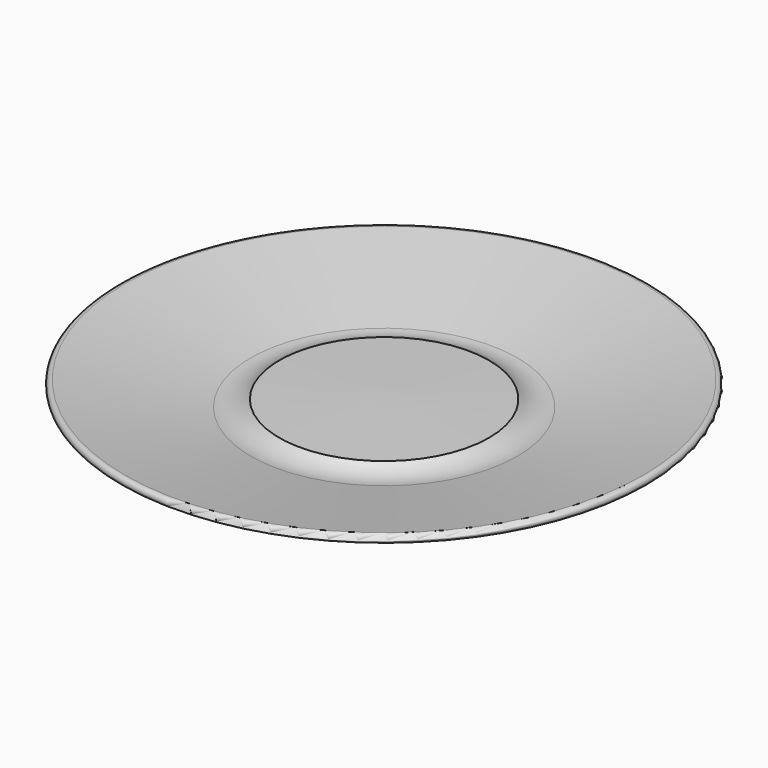
from build123d import *


with BuildPart() as f1:
    # F0 (on Front) → F1 (revolve)
    with BuildSketch(Plane.XZ):
        with BuildLine():
            Line((151.253424, 11.254308), (29.166639, 13.973743))
            Line((29.166639, 13.973743), (29.166639, 0))
            Line((29.166639, 0), (125.650197, 0))
            ThreePointArc((125.650197, 0), (136.271784, -2.236273), (145.090006, -8.565411))
            ThreePointArc((145.090006, -8.565411), (155.771268, -15.34929), (168.415868, -15.82308))
            Line((168.415868, -15.82308), (332.77935, 22.097347))
            ThreePointArc((332.77935, 22.097347), (336.331788, 27.680104), (330.806913, 31.321911))
            Line((330.806913, 31.321911), (184.299229, 3.137134))
            ThreePointArc((184.299229, 3.137134), (166.888073, 3.579557), (151.253424, 11.254308))
        make_face()
    revolve(axis=Axis((29.166639, 0, 0.612669), (0, 0, -1)))


solid = f1.part
